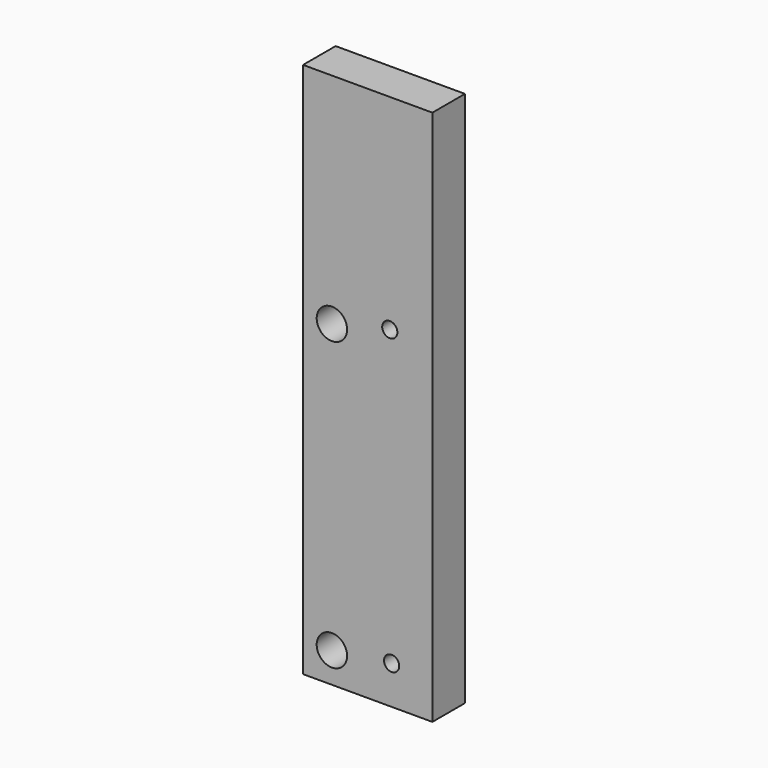
from build123d import *

# Parameters (mm, degrees)
F0_W     = 27.0002
F0_H     = 111.9886
F0_R     = 3.175
F0_R_2   = 1.5875
F1_DEPTH = 8.5


with BuildPart() as f1:
    # F0 (on Front) → F1 (new body)
    with BuildSketch(Plane.XZ):
        with Locations((-48.265494, -24.59839)):
            Rectangle(F0_W, F0_H)
        with Locations((-55.745794, -74.24269)):
            Circle(F0_R, mode=Mode.SUBTRACT)
        with Locations((-43.274394, -72.59169)):
            Circle(F0_R_2, mode=Mode.SUBTRACT)
        with Locations((-55.745794, -14.24789)):
            Circle(F0_R, mode=Mode.SUBTRACT)
        with Locations((-43.655394, -11.37769)):
            Circle(F0_R_2, mode=Mode.SUBTRACT)
    extrude(amount=-F1_DEPTH)


solid = f1.part
